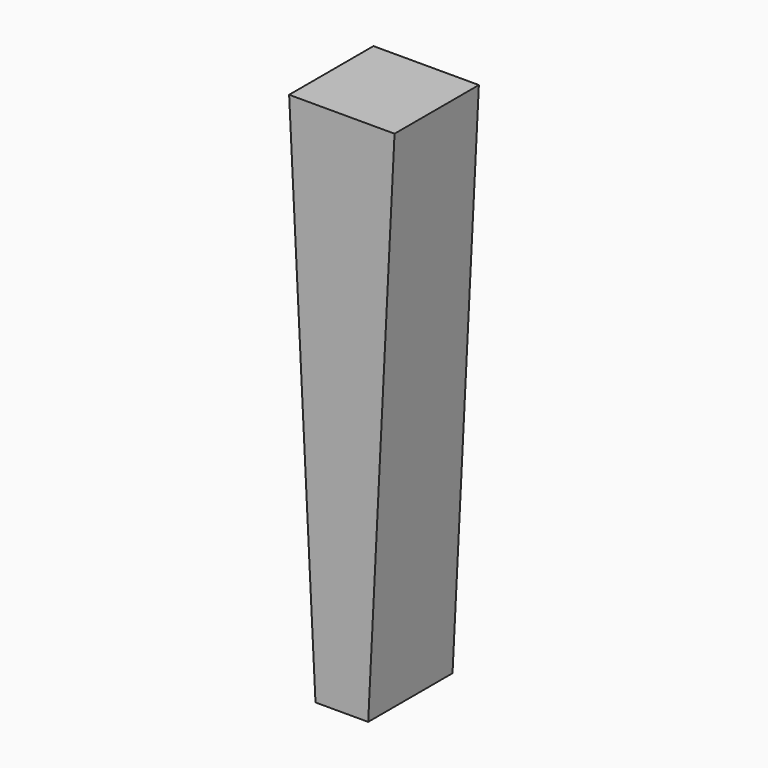
from build123d import *

# Parameters (mm, degrees)
F1_DEPTH = 100
F2_SCALE = 0.05


with BuildPart() as f1:
    # F0 (on Front) → F1 (new body)
    with BuildSketch(Plane.XZ):
        Polygon((0, -499.374608886), (0, 0), (-50, 0), (-25, -499.374608886), align=None)
        Polygon((50, 0), (0, 0), (0, -499.374608886), (25, -499.374608886), align=None)
    extrude(amount=F1_DEPTH)


with BuildPart() as f1_1:
    # F2: moved
    add(f1.part.scale(F2_SCALE))


solid = f1_1.part
